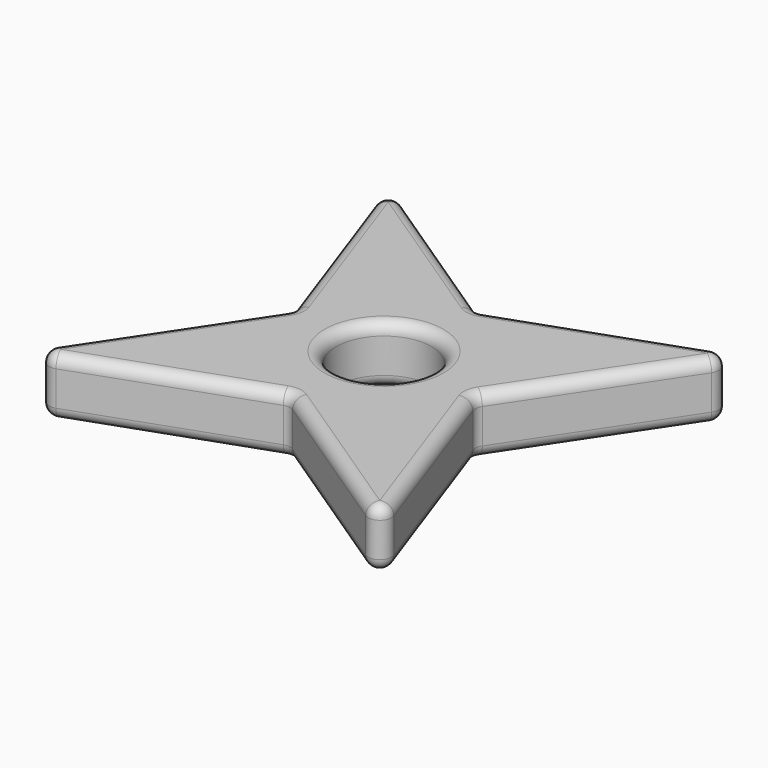
from build123d import *

# Parameters (mm, degrees)
F1_DEPTH = 5
F2_R     = 4.141885
F3_DEPTH = 25
F4_R     = 1


with BuildPart() as f1:
    # F0 (on Top) → F1 (new body)
    with BuildSketch(Plane.XY):
        Polygon((10.952281, 16.452128), (0, 0), (19.723589, 15.361642), (4.361948, 35.085231), align=None)
        Polygon((19.723589, 15.361642), (0, 0), (18.633102, 6.590334), (35.085231, -4.361948), align=None)
        Polygon((39.447178, 30.723283), (19.723589, 15.361642), (35.085231, -4.361948), (28.494897, 14.271155), align=None)
        Polygon((4.361948, 35.085231), (19.723589, 15.361642), (39.447178, 30.723283), (20.814076, 24.132949), align=None)
    extrude(amount=F1_DEPTH)

    # F2 (on face) → F3 (cut)
    with BuildSketch(Plane.XY.offset(5)):
        with Locations((19.723589, 15.361642)):
            Circle(F2_R)
    extrude(amount=-F3_DEPTH, mode=Mode.SUBTRACT)

    # F4
    f4_edges = [f1.edges().sort_by_distance(p)[0] for p in [
        (7.657115, 25.76868, 5),
        (12.588012, 29.60909, 5),
        (5.476141, 8.226064, 5),
        (30.130627, 27.428116, 5),
        (9.316551, 3.295167, 5),
        (33.971038, 22.497219, 5),
        (26.859166, 1.114193, 5),
        (31.790064, 4.954604, 5),
        (15.581704, 15.361642, 5),
        (7.657115, 25.76868, 0),
        (12.588012, 29.60909, 0),
        (5.476141, 8.226064, 0),
        (30.130627, 27.428116, 0),
        (9.316551, 3.295167, 0),
        (33.971038, 22.497219, 0),
        (26.859166, 1.114193, 0),
        (31.790064, 4.954604, 0),
        (15.581704, 15.361642, 0),
        (35.085231, -4.361948, 2.5),
        (28.494897, 14.271155, 2.5),
        (39.447178, 30.723283, 2.5),
        (20.814076, 24.132949, 2.5),
        (4.361948, 35.085231, 2.5),
        (10.952281, 16.452128, 2.5),
        (0, 0, 2.5),
        (18.633102, 6.590334, 2.5),
    ]]
    fillet(f4_edges, radius=F4_R)


solid = f1.part
